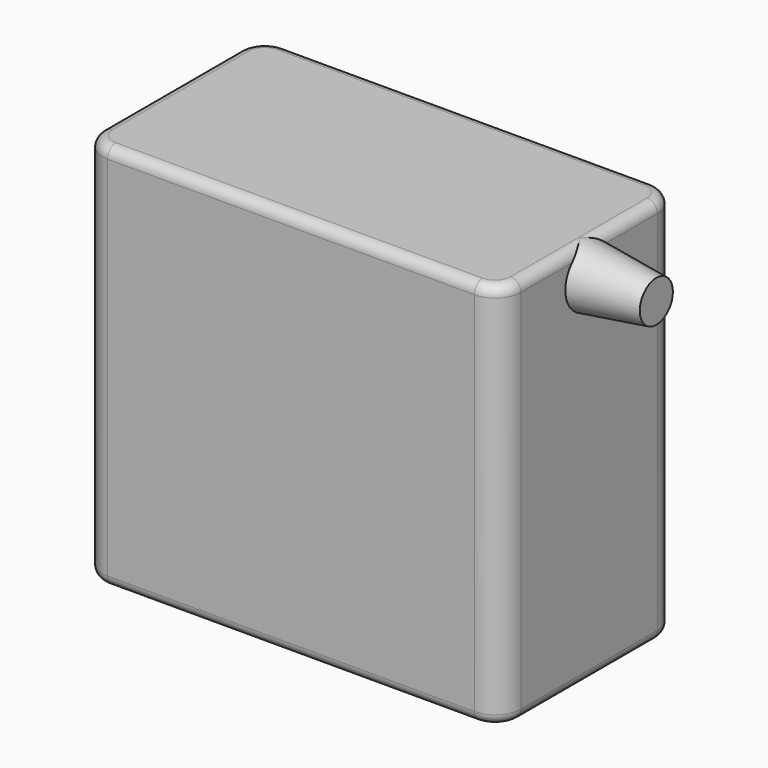
from build123d import *

# Parameters (mm, degrees)
F1_DEPTH = 75
F2_R     = 2


with BuildPart() as f1:
    # F0 (on Top) → F1 (new body)
    with BuildSketch(Plane.XY):
        with BuildLine():
            Line((35.5, 21.5), (-35.5, 21.5))
            ThreePointArc((-35.5, 21.5), (-39.035534, 20.035534), (-40.5, 16.5))
            Line((-40.5, 16.5), (-40.5, -16.5))
            ThreePointArc((-40.5, -16.5), (-39.035534, -20.035534), (-35.5, -21.5))
            Line((-35.5, -21.5), (35.5, -21.5))
            ThreePointArc((35.5, -21.5), (39.035534, -20.035534), (40.5, -16.5))
            Line((40.5, -16.5), (40.5, 16.5))
            ThreePointArc((40.5, 16.5), (39.035534, 20.035534), (35.5, 21.5))
        make_face()
    extrude(amount=F1_DEPTH)

    # F2
    f2_edges = [f1.edges().sort_by_distance(p)[0] for p in [
        (0, 21.5, 75),
        (-39.035534, 20.035534, 75),
        (-40.5, 0, 75),
        (-39.035534, -20.035534, 75),
        (0, -21.5, 75),
        (39.035534, -20.035534, 75),
        (40.5, 0, 75),
        (39.035534, 20.035534, 75),
        (0, 21.5, 0),
        (-39.035534, 20.035534, 0),
        (-40.5, 0, 0),
        (-39.035534, -20.035534, 0),
        (0, -21.5, 0),
        (39.035534, -20.035534, 0),
        (40.5, 0, 0),
        (39.035534, 20.035534, 0),
    ]]
    fillet(f2_edges, radius=F2_R)

    # F3 (on Front) → F4 (revolve)
    with BuildSketch(Plane.XZ):
        Polygon((38.769069, 74.981818), (40.5, 68.981818), (53.5, 68.981818), (53.5, 72.981818), align=None)
    revolve(axis=Axis((47, 0, 68.981818), (1, 0, 0)))


solid = f1.part
